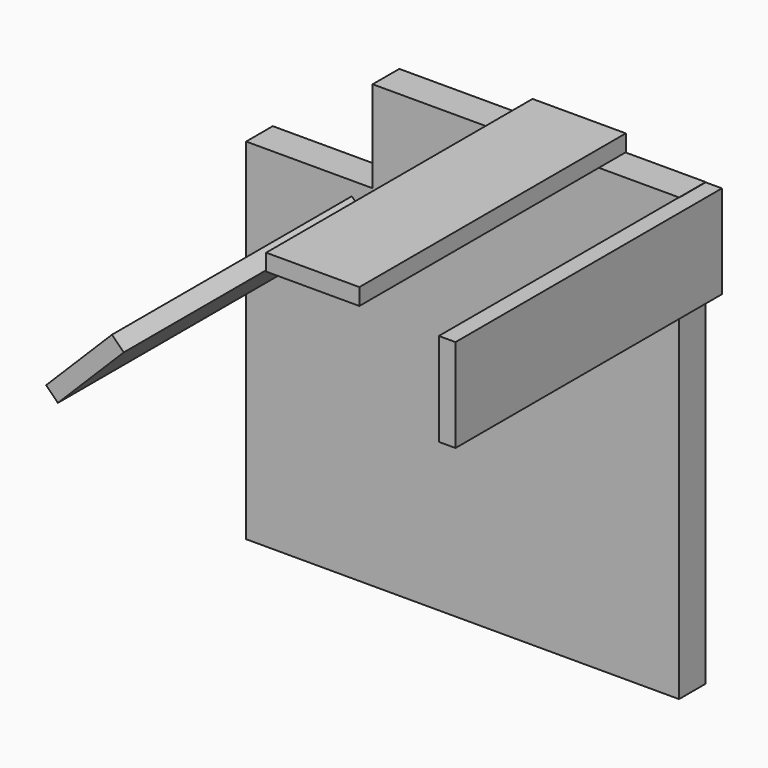
from build123d import *

# Parameters (mm, degrees)
F1_DEPTH = 25.4
F2_W     = 71.12
F2_H     = 12.7
F2_W_2   = 12.7
F2_H_2   = 71.12
F3_DEPTH = 254
F5_DEPTH = 25.4


with BuildPart() as f1:
    # F0 (on Front) → F1 (new body)
    with BuildSketch(Plane.XZ):
        Polygon((104.636542, -162.56), (104.636542, 101.6), (104.636542, 174.330176), (43.676542, 174.330176), (-27.443458, 174.330176), (-129.043458, 174.330176), (-129.043458, 104.480176), (-225.563458, 0), (-225.563458, -162.56), align=None)
        Polygon((-225.563458, 104.480176), (-225.563458, 0), (-129.043458, 104.480176), align=None)
    extrude(amount=F1_DEPTH)

    # F4 (on Front) → F5 (join)
    with BuildSketch(Plane.XZ):
        Polygon((-223.457229, 14.464707), (-217.975392, 9.171896), (-200.332686, 27.444688), (-205.814524, 32.7375), align=None)
    extrude(amount=F5_DEPTH)


with BuildPart() as f3:
    # F2 (on Front) → F3 (new body)
    with BuildSketch(Plane.XZ):
        with Locations((8.151879, 180.87158)):
            Rectangle(F2_W, F2_H)
        with Locations((110.676953, 138.570622)):
            Rectangle(F2_W_2, F2_H_2)
        Polygon((-195.263058, 43.645673), (-186.282802, 34.665416), (-135.993367, 84.954851), (-144.973624, 93.935107), align=None)
    extrude(amount=F3_DEPTH)


solid = Compound([f1.part, f3.part])
